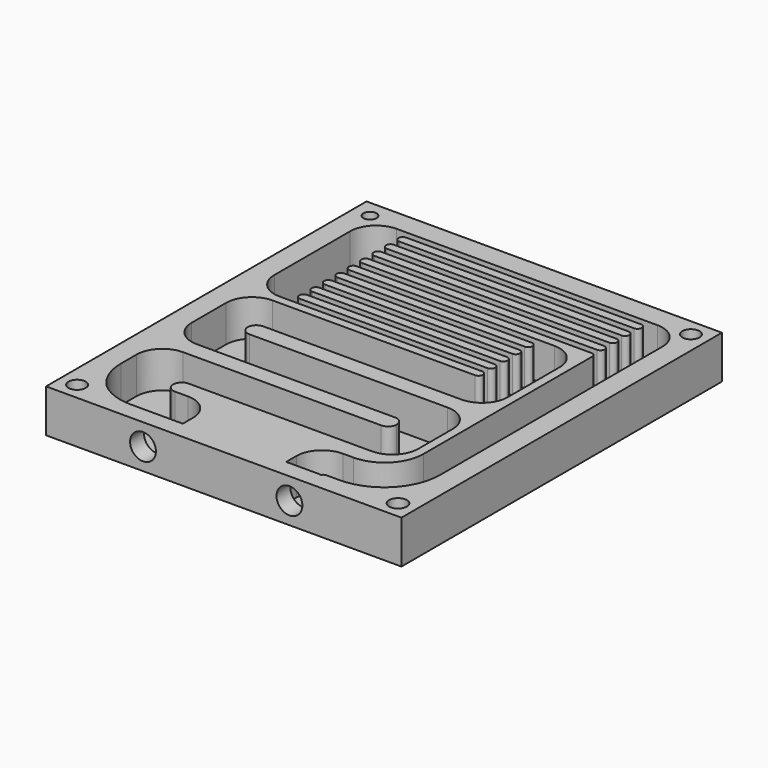
from build123d import *

# Parameters (mm, degrees)
F0_W     = 165
F0_H     = 186
F0_R     = 4
F0_R_2   = 4.120962
F0_R_3   = 3.066892
F1_DEPTH = 3
F2_DEPTH = 20
F3_R     = 6
F4_DEPTH = 8.101391


with BuildPart() as f1:
    # F0 (on Top) → F1 (new body)
    with BuildSketch(Plane.XY):
        Rectangle(F0_W, F0_H)
        with Locations((-74.5, -85)):
            Circle(F0_R, mode=Mode.SUBTRACT)
        with Locations((74.5, -85)):
            Circle(F0_R_2, mode=Mode.SUBTRACT)
        with BuildLine():
            ThreePointArc((22.5, -79), (26.014719, -70.514719), (34.5, -67))
            Line((34.5, -67), (39.5, -67))
            ThreePointArc((39.5, -67), (52.227922, -61.727922), (57.5, -49))
            Line((57.5, -49), (57.5, 49))
            ThreePointArc((57.5, 49), (56.914214, 50.414214), (55.5, 51))
            Line((55.5, 51), (-53.5, 51))
            ThreePointArc((-53.5, 51), (-54.914214, 50.414214), (-55.5, 49))
            ThreePointArc((-55.5, 49), (-54.914214, 47.585786), (-53.5, 47))
            Line((-53.5, 47), (35.5, 47))
            Line((35.5, 47), (41.5, 47))
            ThreePointArc((41.5, 47), (49.985281, 43.485281), (53.5, 35))
            Line((53.5, 35), (53.5, 5))
            ThreePointArc((53.5, 5), (49.985281, -3.485281), (41.5, -7))
            Line((41.5, -7), (40.5, -7))
            Line((40.5, -7), (-50.5, -7))
            ThreePointArc((-50.5, -7), (-53.328427, -8.171573), (-54.5, -11))
            ThreePointArc((-54.5, -11), (-53.328427, -13.828427), (-50.5, -15))
            Line((-50.5, -15), (35.5, -15))
            Line((35.5, -15), (41.5, -15))
            ThreePointArc((41.5, -15), (49.985281, -18.514719), (53.5, -27))
            Line((53.5, -27), (53.5, -47))
            ThreePointArc((53.5, -47), (49.985281, -55.485281), (41.5, -59))
            Line((41.5, -59), (35.5, -59))
            Line((35.5, -59), (-43.5, -59))
            ThreePointArc((-43.5, -59), (-46.328427, -60.171573), (-47.5, -63))
            ThreePointArc((-47.5, -63), (-46.328427, -65.828427), (-43.5, -67))
            Line((-43.5, -67), (-37.5, -67))
            ThreePointArc((-37.5, -67), (-29.014719, -70.514719), (-25.5, -79))
            Line((-25.5, -79), (-25.5, -84.898609))
            Line((-25.5, -84.898609), (-49.832176, -84.898609))
            ThreePointArc((-49.832176, -84.898609), (-58.223805, -83.383728), (-65.556073, -79.030324))
            ThreePointArc((-65.556073, -79.030324), (-70.696236, -71.274074), (-72.5, -62.145704))
            Line((-72.5, -62.145704), (-72.5, -53))
            ThreePointArc((-72.5, -53), (-68.985281, -44.514719), (-60.5, -41))
            Line((-60.5, -41), (-54.5, -41))
            Line((-54.5, -41), (31.5, -41))
            ThreePointArc((31.5, -41), (34.328427, -39.828427), (35.5, -37))
            ThreePointArc((35.5, -37), (34.328427, -34.171573), (31.5, -33))
            Line((31.5, -33), (-54.5, -33))
            Line((-54.5, -33), (-60.5, -33))
            ThreePointArc((-60.5, -33), (-68.985281, -29.485281), (-72.5, -21))
            Line((-72.5, -21), (-72.5, -1))
            ThreePointArc((-72.5, -1), (-68.985281, 7.485281), (-60.5, 11))
            Line((-60.5, 11), (-54.5, 11))
            Line((-54.5, 11), (33.5, 11))
            ThreePointArc((33.5, 11), (34.914214, 11.585786), (35.5, 13))
            ThreePointArc((35.5, 13), (34.914214, 14.414214), (33.5, 15))
            Line((33.5, 15), (-55.5, 15))
            Line((-55.5, 15), (-60.5, 15))
            ThreePointArc((-60.5, 15), (-68.985281, 18.514719), (-72.5, 27))
            Line((-72.5, 27), (-72.5, 71))
            ThreePointArc((-72.5, 71), (-68.985281, 79.485281), (-60.5, 83))
            Line((-60.5, 83), (-55.5, 83))
            Line((-55.5, 83), (57.5, 83))
            Line((57.5, 83), (60.5, 83))
            ThreePointArc((60.5, 83), (68.985281, 79.485281), (72.5, 71))
            Line((72.5, 71), (72.5, -57.898609))
            ThreePointArc((72.5, -57.898609), (64.920786, -76.348894), (46.500198, -84))
            Line((46.500198, -84), (40.5, -84))
            ThreePointArc((40.5, -84), (39.085786, -84.585786), (38.5, -86))
            Line((38.5, -86), (38.5, -84.898609))
            Line((38.5, -84.898609), (22.5, -84.898609))
            Line((22.5, -84.898609), (22.5, -84))
            Line((22.5, -84), (22.5, -79))
        make_face(mode=Mode.SUBTRACT)
        with Locations((-74.5, 85)):
            Circle(F0_R_3, mode=Mode.SUBTRACT)
        with Locations((74.5, 85)):
            Circle(F0_R, mode=Mode.SUBTRACT)
        with BuildLine():
            Line((39.5, -67), (34.5, -67))
            ThreePointArc((34.5, -67), (26.014719, -70.514719), (22.5, -79))
            Line((22.5, -79), (22.5, -84))
            Line((22.5, -84), (22.5, -84.898609))
            Line((22.5, -84.898609), (38.5, -84.898609))
            Line((38.5, -84.898609), (38.5, -86))
            ThreePointArc((38.5, -86), (39.085786, -84.585786), (40.5, -84))
            Line((40.5, -84), (46.500198, -84))
            ThreePointArc((46.500198, -84), (64.920786, -76.348894), (72.5, -57.898609))
            Line((72.5, -57.898609), (72.5, 71))
            ThreePointArc((72.5, 71), (68.985281, 79.485281), (60.5, 83))
            Line((60.5, 83), (57.5, 83))
            Line((57.5, 83), (-55.5, 83))
            Line((-55.5, 83), (-60.5, 83))
            ThreePointArc((-60.5, 83), (-68.985281, 79.485281), (-72.5, 71))
            Line((-72.5, 71), (-72.5, 27))
            ThreePointArc((-72.5, 27), (-68.985281, 18.514719), (-60.5, 15))
            Line((-60.5, 15), (-55.5, 15))
            Line((-55.5, 15), (33.5, 15))
            ThreePointArc((33.5, 15), (34.914214, 14.414214), (35.5, 13))
            ThreePointArc((35.5, 13), (34.914214, 11.585786), (33.5, 11))
            Line((33.5, 11), (-54.5, 11))
            Line((-54.5, 11), (-60.5, 11))
            ThreePointArc((-60.5, 11), (-68.985281, 7.485281), (-72.5, -1))
            Line((-72.5, -1), (-72.5, -21))
            ThreePointArc((-72.5, -21), (-68.985281, -29.485281), (-60.5, -33))
            Line((-60.5, -33), (-54.5, -33))
            Line((-54.5, -33), (31.5, -33))
            ThreePointArc((31.5, -33), (34.328427, -34.171573), (35.5, -37))
            ThreePointArc((35.5, -37), (34.328427, -39.828427), (31.5, -41))
            Line((31.5, -41), (-54.5, -41))
            Line((-54.5, -41), (-60.5, -41))
            ThreePointArc((-60.5, -41), (-68.985281, -44.514719), (-72.5, -53))
            Line((-72.5, -53), (-72.5, -62.145704))
            ThreePointArc((-72.5, -62.145704), (-70.696236, -71.274074), (-65.556073, -79.030324))
            ThreePointArc((-65.556073, -79.030324), (-58.223805, -83.383728), (-49.832176, -84.898609))
            Line((-49.832176, -84.898609), (-25.5, -84.898609))
            Line((-25.5, -84.898609), (-25.5, -79))
            ThreePointArc((-25.5, -79), (-29.014719, -70.514719), (-37.5, -67))
            Line((-37.5, -67), (-43.5, -67))
            ThreePointArc((-43.5, -67), (-46.328427, -65.828427), (-47.5, -63))
            ThreePointArc((-47.5, -63), (-46.328427, -60.171573), (-43.5, -59))
            Line((-43.5, -59), (35.5, -59))
            Line((35.5, -59), (41.5, -59))
            ThreePointArc((41.5, -59), (49.985281, -55.485281), (53.5, -47))
            Line((53.5, -47), (53.5, -27))
            ThreePointArc((53.5, -27), (49.985281, -18.514719), (41.5, -15))
            Line((41.5, -15), (35.5, -15))
            Line((35.5, -15), (-50.5, -15))
            ThreePointArc((-50.5, -15), (-53.328427, -13.828427), (-54.5, -11))
            ThreePointArc((-54.5, -11), (-53.328427, -8.171573), (-50.5, -7))
            Line((-50.5, -7), (40.5, -7))
            Line((40.5, -7), (41.5, -7))
            ThreePointArc((41.5, -7), (49.985281, -3.485281), (53.5, 5))
            Line((53.5, 5), (53.5, 35))
            ThreePointArc((53.5, 35), (49.985281, 43.485281), (41.5, 47))
            Line((41.5, 47), (35.5, 47))
            Line((35.5, 47), (-53.5, 47))
            ThreePointArc((-53.5, 47), (-54.914214, 47.585786), (-55.5, 49))
            ThreePointArc((-55.5, 49), (-54.914214, 50.414214), (-53.5, 51))
            Line((-53.5, 51), (55.5, 51))
            ThreePointArc((55.5, 51), (56.914214, 50.414214), (57.5, 49))
            Line((57.5, 49), (57.5, -49))
            ThreePointArc((57.5, -49), (52.227922, -61.727922), (39.5, -67))
        make_face()
        with BuildLine():
            ThreePointArc((-55.5, 20.2), (-54.914214, 21.614214), (-53.5, 22.2))
            Line((-53.5, 22.2), (33.5, 22.2))
            ThreePointArc((33.5, 22.2), (34.914214, 21.614214), (35.5, 20.2))
            ThreePointArc((35.5, 20.2), (34.914214, 18.785786), (33.5, 18.2))
            Line((33.5, 18.2), (-53.5, 18.2))
            ThreePointArc((-53.5, 18.2), (-54.914214, 18.785786), (-55.5, 20.2))
        make_face(mode=Mode.SUBTRACT)
        with BuildLine():
            ThreePointArc((-55.5, 27.4), (-54.914214, 28.814214), (-53.5, 29.4))
            Line((-53.5, 29.4), (33.5, 29.4))
            ThreePointArc((33.5, 29.4), (34.914214, 28.814214), (35.5, 27.4))
            ThreePointArc((35.5, 27.4), (34.914214, 25.985786), (33.5, 25.4))
            Line((33.5, 25.4), (-53.5, 25.4))
            ThreePointArc((-53.5, 25.4), (-54.914214, 25.985786), (-55.5, 27.4))
        make_face(mode=Mode.SUBTRACT)
        with BuildLine():
            ThreePointArc((-55.5, 34.6), (-54.914214, 36.014214), (-53.5, 36.6))
            Line((-53.5, 36.6), (33.5, 36.6))
            ThreePointArc((33.5, 36.6), (34.914214, 36.014214), (35.5, 34.6))
            ThreePointArc((35.5, 34.6), (34.914214, 33.185786), (33.5, 32.6))
            Line((33.5, 32.6), (-53.5, 32.6))
            ThreePointArc((-53.5, 32.6), (-54.914214, 33.185786), (-55.5, 34.6))
        make_face(mode=Mode.SUBTRACT)
        with BuildLine():
            Line((-53.5, 43.8), (33.5, 43.8))
            ThreePointArc((33.5, 43.8), (34.914214, 43.214214), (35.5, 41.8))
            ThreePointArc((35.5, 41.8), (34.914214, 40.385786), (33.5, 39.8))
            Line((33.5, 39.8), (-53.5, 39.8))
            ThreePointArc((-53.5, 39.8), (-54.914214, 40.385786), (-55.5, 41.8))
            ThreePointArc((-55.5, 41.8), (-54.914214, 43.214214), (-53.5, 43.8))
        make_face(mode=Mode.SUBTRACT)
        with BuildLine():
            ThreePointArc((-55.5, 56.2), (-54.914214, 57.614214), (-53.5, 58.2))
            Line((-53.5, 58.2), (55.5, 58.2))
            ThreePointArc((55.5, 58.2), (56.914214, 57.614214), (57.5, 56.2))
            ThreePointArc((57.5, 56.2), (56.914214, 54.785786), (55.5, 54.2))
            Line((55.5, 54.2), (-53.5, 54.2))
            ThreePointArc((-53.5, 54.2), (-54.914214, 54.785786), (-55.5, 56.2))
        make_face(mode=Mode.SUBTRACT)
        with BuildLine():
            ThreePointArc((-55.5, 63.4), (-54.914214, 64.814214), (-53.5, 65.4))
            Line((-53.5, 65.4), (55.5, 65.4))
            ThreePointArc((55.5, 65.4), (56.914214, 64.814214), (57.5, 63.4))
            ThreePointArc((57.5, 63.4), (56.914214, 61.985786), (55.5, 61.4))
            Line((55.5, 61.4), (-53.5, 61.4))
            ThreePointArc((-53.5, 61.4), (-54.914214, 61.985786), (-55.5, 63.4))
        make_face(mode=Mode.SUBTRACT)
        with BuildLine():
            Line((-53.5, 72.6), (55.5, 72.6))
            ThreePointArc((55.5, 72.6), (56.914214, 72.014214), (57.5, 70.6))
            ThreePointArc((57.5, 70.6), (56.914214, 69.185786), (55.5, 68.6))
            Line((55.5, 68.6), (-53.5, 68.6))
            ThreePointArc((-53.5, 68.6), (-54.914214, 69.185786), (-55.5, 70.6))
            ThreePointArc((-55.5, 70.6), (-54.914214, 72.014214), (-53.5, 72.6))
        make_face(mode=Mode.SUBTRACT)
        with BuildLine():
            Line((-53.5, 79.8), (55.5, 79.8))
            ThreePointArc((55.5, 79.8), (56.914214, 79.214214), (57.5, 77.8))
            ThreePointArc((57.5, 77.8), (56.914214, 76.385786), (55.5, 75.8))
            Line((55.5, 75.8), (-53.5, 75.8))
            ThreePointArc((-53.5, 75.8), (-54.914214, 76.385786), (-55.5, 77.8))
            ThreePointArc((-55.5, 77.8), (-54.914214, 79.214214), (-53.5, 79.8))
        make_face(mode=Mode.SUBTRACT)
        with BuildLine():
            Line((55.5, 58.2), (-53.5, 58.2))
            ThreePointArc((-53.5, 58.2), (-54.914214, 57.614214), (-55.5, 56.2))
            ThreePointArc((-55.5, 56.2), (-54.914214, 54.785786), (-53.5, 54.2))
            Line((-53.5, 54.2), (55.5, 54.2))
            ThreePointArc((55.5, 54.2), (56.914214, 54.785786), (57.5, 56.2))
            ThreePointArc((57.5, 56.2), (56.914214, 57.614214), (55.5, 58.2))
        make_face()
        with BuildLine():
            Line((55.5, 65.4), (-53.5, 65.4))
            ThreePointArc((-53.5, 65.4), (-54.914214, 64.814214), (-55.5, 63.4))
            ThreePointArc((-55.5, 63.4), (-54.914214, 61.985786), (-53.5, 61.4))
            Line((-53.5, 61.4), (55.5, 61.4))
            ThreePointArc((55.5, 61.4), (56.914214, 61.985786), (57.5, 63.4))
            ThreePointArc((57.5, 63.4), (56.914214, 64.814214), (55.5, 65.4))
        make_face()
        with BuildLine():
            ThreePointArc((57.5, 70.6), (56.914214, 72.014214), (55.5, 72.6))
            Line((55.5, 72.6), (-53.5, 72.6))
            ThreePointArc((-53.5, 72.6), (-54.914214, 72.014214), (-55.5, 70.6))
            ThreePointArc((-55.5, 70.6), (-54.914214, 69.185786), (-53.5, 68.6))
            Line((-53.5, 68.6), (55.5, 68.6))
            ThreePointArc((55.5, 68.6), (56.914214, 69.185786), (57.5, 70.6))
        make_face()
        with BuildLine():
            ThreePointArc((57.5, 77.8), (56.914214, 79.214214), (55.5, 79.8))
            Line((55.5, 79.8), (-53.5, 79.8))
            ThreePointArc((-53.5, 79.8), (-54.914214, 79.214214), (-55.5, 77.8))
            ThreePointArc((-55.5, 77.8), (-54.914214, 76.385786), (-53.5, 75.8))
            Line((-53.5, 75.8), (55.5, 75.8))
            ThreePointArc((55.5, 75.8), (56.914214, 76.385786), (57.5, 77.8))
        make_face()
        with BuildLine():
            ThreePointArc((35.5, 41.8), (34.914214, 43.214214), (33.5, 43.8))
            Line((33.5, 43.8), (-53.5, 43.8))
            ThreePointArc((-53.5, 43.8), (-54.914214, 43.214214), (-55.5, 41.8))
            ThreePointArc((-55.5, 41.8), (-54.914214, 40.385786), (-53.5, 39.8))
            Line((-53.5, 39.8), (33.5, 39.8))
            ThreePointArc((33.5, 39.8), (34.914214, 40.385786), (35.5, 41.8))
        make_face()
        with BuildLine():
            Line((33.5, 36.6), (-53.5, 36.6))
            ThreePointArc((-53.5, 36.6), (-54.914214, 36.014214), (-55.5, 34.6))
            ThreePointArc((-55.5, 34.6), (-54.914214, 33.185786), (-53.5, 32.6))
            Line((-53.5, 32.6), (33.5, 32.6))
            ThreePointArc((33.5, 32.6), (34.914214, 33.185786), (35.5, 34.6))
            ThreePointArc((35.5, 34.6), (34.914214, 36.014214), (33.5, 36.6))
        make_face()
        with BuildLine():
            Line((33.5, 29.4), (-53.5, 29.4))
            ThreePointArc((-53.5, 29.4), (-54.914214, 28.814214), (-55.5, 27.4))
            ThreePointArc((-55.5, 27.4), (-54.914214, 25.985786), (-53.5, 25.4))
            Line((-53.5, 25.4), (33.5, 25.4))
            ThreePointArc((33.5, 25.4), (34.914214, 25.985786), (35.5, 27.4))
            ThreePointArc((35.5, 27.4), (34.914214, 28.814214), (33.5, 29.4))
        make_face()
        with BuildLine():
            Line((33.5, 22.2), (-53.5, 22.2))
            ThreePointArc((-53.5, 22.2), (-54.914214, 21.614214), (-55.5, 20.2))
            ThreePointArc((-55.5, 20.2), (-54.914214, 18.785786), (-53.5, 18.2))
            Line((-53.5, 18.2), (33.5, 18.2))
            ThreePointArc((33.5, 18.2), (34.914214, 18.785786), (35.5, 20.2))
            ThreePointArc((35.5, 20.2), (34.914214, 21.614214), (33.5, 22.2))
        make_face()
    extrude(amount=F1_DEPTH)

    # F0 (on Top) → F2 (join)
    with BuildSketch(Plane.XY):
        Rectangle(F0_W, F0_H)
        with Locations((-74.5, -85)):
            Circle(F0_R, mode=Mode.SUBTRACT)
        with Locations((74.5, -85)):
            Circle(F0_R_2, mode=Mode.SUBTRACT)
        with BuildLine():
            ThreePointArc((22.5, -79), (26.014719, -70.514719), (34.5, -67))
            Line((34.5, -67), (39.5, -67))
            ThreePointArc((39.5, -67), (52.227922, -61.727922), (57.5, -49))
            Line((57.5, -49), (57.5, 49))
            ThreePointArc((57.5, 49), (56.914214, 50.414214), (55.5, 51))
            Line((55.5, 51), (-53.5, 51))
            ThreePointArc((-53.5, 51), (-54.914214, 50.414214), (-55.5, 49))
            ThreePointArc((-55.5, 49), (-54.914214, 47.585786), (-53.5, 47))
            Line((-53.5, 47), (35.5, 47))
            Line((35.5, 47), (41.5, 47))
            ThreePointArc((41.5, 47), (49.985281, 43.485281), (53.5, 35))
            Line((53.5, 35), (53.5, 5))
            ThreePointArc((53.5, 5), (49.985281, -3.485281), (41.5, -7))
            Line((41.5, -7), (40.5, -7))
            Line((40.5, -7), (-50.5, -7))
            ThreePointArc((-50.5, -7), (-53.328427, -8.171573), (-54.5, -11))
            ThreePointArc((-54.5, -11), (-53.328427, -13.828427), (-50.5, -15))
            Line((-50.5, -15), (35.5, -15))
            Line((35.5, -15), (41.5, -15))
            ThreePointArc((41.5, -15), (49.985281, -18.514719), (53.5, -27))
            Line((53.5, -27), (53.5, -47))
            ThreePointArc((53.5, -47), (49.985281, -55.485281), (41.5, -59))
            Line((41.5, -59), (35.5, -59))
            Line((35.5, -59), (-43.5, -59))
            ThreePointArc((-43.5, -59), (-46.328427, -60.171573), (-47.5, -63))
            ThreePointArc((-47.5, -63), (-46.328427, -65.828427), (-43.5, -67))
            Line((-43.5, -67), (-37.5, -67))
            ThreePointArc((-37.5, -67), (-29.014719, -70.514719), (-25.5, -79))
            Line((-25.5, -79), (-25.5, -84.898609))
            Line((-25.5, -84.898609), (-49.832176, -84.898609))
            ThreePointArc((-49.832176, -84.898609), (-58.223805, -83.383728), (-65.556073, -79.030324))
            ThreePointArc((-65.556073, -79.030324), (-70.696236, -71.274074), (-72.5, -62.145704))
            Line((-72.5, -62.145704), (-72.5, -53))
            ThreePointArc((-72.5, -53), (-68.985281, -44.514719), (-60.5, -41))
            Line((-60.5, -41), (-54.5, -41))
            Line((-54.5, -41), (31.5, -41))
            ThreePointArc((31.5, -41), (34.328427, -39.828427), (35.5, -37))
            ThreePointArc((35.5, -37), (34.328427, -34.171573), (31.5, -33))
            Line((31.5, -33), (-54.5, -33))
            Line((-54.5, -33), (-60.5, -33))
            ThreePointArc((-60.5, -33), (-68.985281, -29.485281), (-72.5, -21))
            Line((-72.5, -21), (-72.5, -1))
            ThreePointArc((-72.5, -1), (-68.985281, 7.485281), (-60.5, 11))
            Line((-60.5, 11), (-54.5, 11))
            Line((-54.5, 11), (33.5, 11))
            ThreePointArc((33.5, 11), (34.914214, 11.585786), (35.5, 13))
            ThreePointArc((35.5, 13), (34.914214, 14.414214), (33.5, 15))
            Line((33.5, 15), (-55.5, 15))
            Line((-55.5, 15), (-60.5, 15))
            ThreePointArc((-60.5, 15), (-68.985281, 18.514719), (-72.5, 27))
            Line((-72.5, 27), (-72.5, 71))
            ThreePointArc((-72.5, 71), (-68.985281, 79.485281), (-60.5, 83))
            Line((-60.5, 83), (-55.5, 83))
            Line((-55.5, 83), (57.5, 83))
            Line((57.5, 83), (60.5, 83))
            ThreePointArc((60.5, 83), (68.985281, 79.485281), (72.5, 71))
            Line((72.5, 71), (72.5, -57.898609))
            ThreePointArc((72.5, -57.898609), (64.920786, -76.348894), (46.500198, -84))
            Line((46.500198, -84), (40.5, -84))
            ThreePointArc((40.5, -84), (39.085786, -84.585786), (38.5, -86))
            Line((38.5, -86), (38.5, -84.898609))
            Line((38.5, -84.898609), (22.5, -84.898609))
            Line((22.5, -84.898609), (22.5, -84))
            Line((22.5, -84), (22.5, -79))
        make_face(mode=Mode.SUBTRACT)
        with Locations((-74.5, 85)):
            Circle(F0_R_3, mode=Mode.SUBTRACT)
        with Locations((74.5, 85)):
            Circle(F0_R, mode=Mode.SUBTRACT)
        with BuildLine():
            ThreePointArc((57.5, 77.8), (56.914214, 79.214214), (55.5, 79.8))
            Line((55.5, 79.8), (-53.5, 79.8))
            ThreePointArc((-53.5, 79.8), (-54.914214, 79.214214), (-55.5, 77.8))
            ThreePointArc((-55.5, 77.8), (-54.914214, 76.385786), (-53.5, 75.8))
            Line((-53.5, 75.8), (55.5, 75.8))
            ThreePointArc((55.5, 75.8), (56.914214, 76.385786), (57.5, 77.8))
        make_face()
        with BuildLine():
            ThreePointArc((57.5, 70.6), (56.914214, 72.014214), (55.5, 72.6))
            Line((55.5, 72.6), (-53.5, 72.6))
            ThreePointArc((-53.5, 72.6), (-54.914214, 72.014214), (-55.5, 70.6))
            ThreePointArc((-55.5, 70.6), (-54.914214, 69.185786), (-53.5, 68.6))
            Line((-53.5, 68.6), (55.5, 68.6))
            ThreePointArc((55.5, 68.6), (56.914214, 69.185786), (57.5, 70.6))
        make_face()
        with BuildLine():
            Line((55.5, 65.4), (-53.5, 65.4))
            ThreePointArc((-53.5, 65.4), (-54.914214, 64.814214), (-55.5, 63.4))
            ThreePointArc((-55.5, 63.4), (-54.914214, 61.985786), (-53.5, 61.4))
            Line((-53.5, 61.4), (55.5, 61.4))
            ThreePointArc((55.5, 61.4), (56.914214, 61.985786), (57.5, 63.4))
            ThreePointArc((57.5, 63.4), (56.914214, 64.814214), (55.5, 65.4))
        make_face()
        with BuildLine():
            Line((55.5, 58.2), (-53.5, 58.2))
            ThreePointArc((-53.5, 58.2), (-54.914214, 57.614214), (-55.5, 56.2))
            ThreePointArc((-55.5, 56.2), (-54.914214, 54.785786), (-53.5, 54.2))
            Line((-53.5, 54.2), (55.5, 54.2))
            ThreePointArc((55.5, 54.2), (56.914214, 54.785786), (57.5, 56.2))
            ThreePointArc((57.5, 56.2), (56.914214, 57.614214), (55.5, 58.2))
        make_face()
        with BuildLine():
            ThreePointArc((35.5, 41.8), (34.914214, 43.214214), (33.5, 43.8))
            Line((33.5, 43.8), (-53.5, 43.8))
            ThreePointArc((-53.5, 43.8), (-54.914214, 43.214214), (-55.5, 41.8))
            ThreePointArc((-55.5, 41.8), (-54.914214, 40.385786), (-53.5, 39.8))
            Line((-53.5, 39.8), (33.5, 39.8))
            ThreePointArc((33.5, 39.8), (34.914214, 40.385786), (35.5, 41.8))
        make_face()
        with BuildLine():
            Line((33.5, 36.6), (-53.5, 36.6))
            ThreePointArc((-53.5, 36.6), (-54.914214, 36.014214), (-55.5, 34.6))
            ThreePointArc((-55.5, 34.6), (-54.914214, 33.185786), (-53.5, 32.6))
            Line((-53.5, 32.6), (33.5, 32.6))
            ThreePointArc((33.5, 32.6), (34.914214, 33.185786), (35.5, 34.6))
            ThreePointArc((35.5, 34.6), (34.914214, 36.014214), (33.5, 36.6))
        make_face()
        with BuildLine():
            Line((33.5, 29.4), (-53.5, 29.4))
            ThreePointArc((-53.5, 29.4), (-54.914214, 28.814214), (-55.5, 27.4))
            ThreePointArc((-55.5, 27.4), (-54.914214, 25.985786), (-53.5, 25.4))
            Line((-53.5, 25.4), (33.5, 25.4))
            ThreePointArc((33.5, 25.4), (34.914214, 25.985786), (35.5, 27.4))
            ThreePointArc((35.5, 27.4), (34.914214, 28.814214), (33.5, 29.4))
        make_face()
        with BuildLine():
            Line((33.5, 22.2), (-53.5, 22.2))
            ThreePointArc((-53.5, 22.2), (-54.914214, 21.614214), (-55.5, 20.2))
            ThreePointArc((-55.5, 20.2), (-54.914214, 18.785786), (-53.5, 18.2))
            Line((-53.5, 18.2), (33.5, 18.2))
            ThreePointArc((33.5, 18.2), (34.914214, 18.785786), (35.5, 20.2))
            ThreePointArc((35.5, 20.2), (34.914214, 21.614214), (33.5, 22.2))
        make_face()
    extrude(amount=F2_DEPTH)

    # F3 (on face) → F4 (cut, through all)
    with BuildSketch(Plane.XZ.offset(93)):
        with Locations((-37.5, 10)):
            Circle(F3_R)
        with Locations((30.5, 10)):
            Circle(F3_R)
    extrude(amount=-F4_DEPTH, mode=Mode.SUBTRACT)


solid = f1.part
